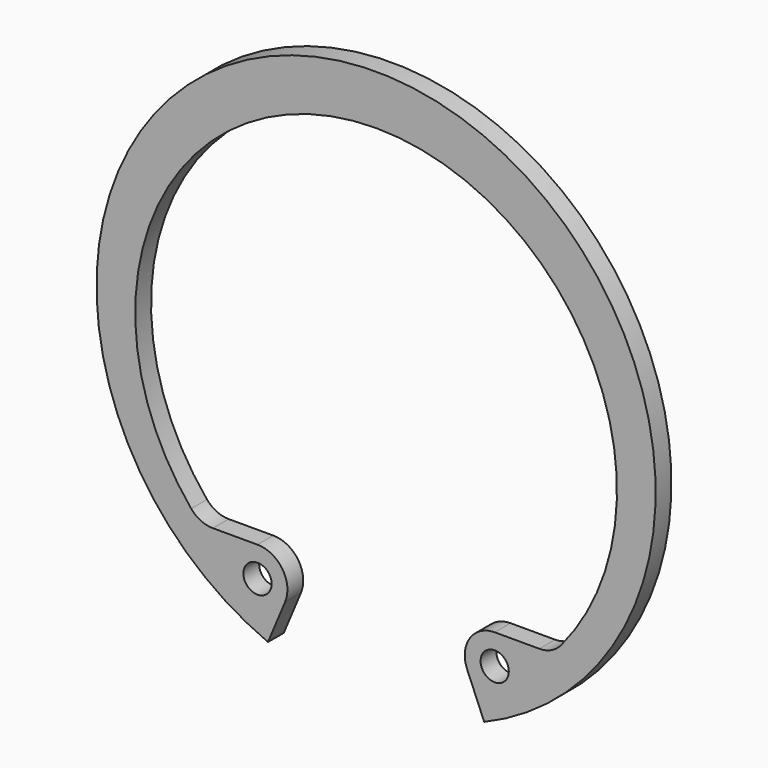
from build123d import *

# Parameters (mm, degrees)
F0_R     = 1.25
F1_DEPTH = 1.75


with BuildPart() as f1:
    # F0 (on Front) → F1 (new body)
    with BuildSketch(Plane.XZ):
        with BuildLine():
            Line((8.056176, -19.211338), (9.571292, -22.824392))
            ThreePointArc((9.571292, -22.824392), (0, 24.75), (-9.571292, -22.824392))
            Line((-9.571292, -22.824392), (-8.056176, -19.211338))
            ThreePointArc((-8.056176, -19.211338), (-8.293393, -16.719092), (-10.5, -15.536533))
            Line((-10.5, -15.536533), (-14.45036, -15.536533))
            ThreePointArc((-14.45036, -15.536533), (-15.509779, -15.300961), (-16.369542, -14.638638))
            ThreePointArc((-16.369542, -14.638638), (0, 20.35), (16.369542, -14.638638))
            ThreePointArc((16.369542, -14.638638), (15.509779, -15.300961), (14.45036, -15.536533))
            Line((14.45036, -15.536533), (10.5, -15.536533))
            ThreePointArc((10.5, -15.536533), (8.293393, -16.719092), (8.056176, -19.211338))
        make_face()
        with Locations((-10.5, -18.186533)):
            Circle(F0_R, mode=Mode.SUBTRACT)
        with Locations((10.5, -18.186533)):
            Circle(F0_R, mode=Mode.SUBTRACT)
    extrude(amount=F1_DEPTH)


solid = f1.part
